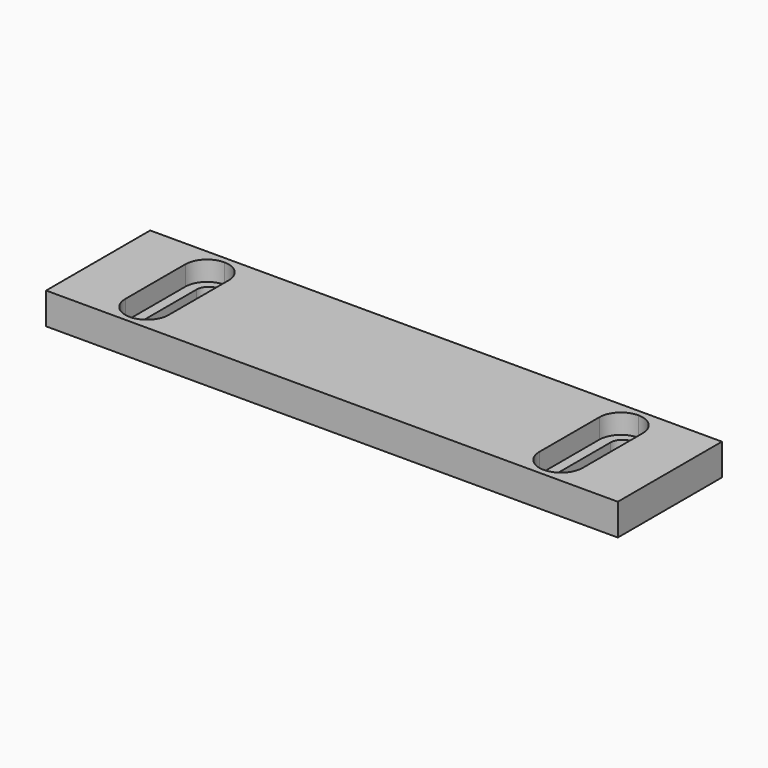
from build123d import *

# Parameters (mm, degrees)
F0_W     = 145
F0_H     = 33
F1_DEPTH = 8
F2_DEPTH = 5


with BuildPart() as f1:
    # F0 (on Top) → F1 (new body)
    with BuildSketch(Plane.XY):
        Rectangle(F0_W, F0_H)
        with BuildLine():
            Line((-58, -9.5), (-58, 9.5))
            ThreePointArc((-58, 9.5), (-56.389087, 13.389087), (-52.5, 15))
            ThreePointArc((-52.5, 15), (-48.610913, 13.389087), (-47, 9.5))
            Line((-47, 9.5), (-47, -9.5))
            ThreePointArc((-47, -9.5), (-48.610913, -13.389087), (-52.5, -15))
            ThreePointArc((-52.5, -15), (-56.389087, -13.389087), (-58, -9.5))
        make_face(mode=Mode.SUBTRACT)
        with BuildLine():
            Line((47, -9.5), (47, 9.5))
            ThreePointArc((47, 9.5), (48.610913, 13.389087), (52.5, 15))
            ThreePointArc((52.5, 15), (56.389087, 13.389087), (58, 9.5))
            Line((58, 9.5), (58, -9.5))
            ThreePointArc((58, -9.5), (56.389087, -13.389087), (52.5, -15))
            ThreePointArc((52.5, -15), (48.610913, -13.389087), (47, -9.5))
        make_face(mode=Mode.SUBTRACT)
        with BuildLine():
            ThreePointArc((-52.5, 15), (-56.389087, 13.389087), (-58, 9.5))
            Line((-58, 9.5), (-58, -9.5))
            ThreePointArc((-58, -9.5), (-56.389087, -13.389087), (-52.5, -15))
            ThreePointArc((-52.5, -15), (-48.610913, -13.389087), (-47, -9.5))
            Line((-47, -9.5), (-47, 9.5))
            ThreePointArc((-47, 9.5), (-48.610913, 13.389087), (-52.5, 15))
        make_face()
        with BuildLine():
            ThreePointArc((-52.5, 13), (-50.37868, 12.12132), (-49.5, 10))
            Line((-49.5, 10), (-49.5, -10))
            ThreePointArc((-49.5, -10), (-50.37868, -12.12132), (-52.5, -13))
            ThreePointArc((-52.5, -13), (-54.62132, -12.12132), (-55.5, -10))
            Line((-55.5, -10), (-55.5, 10))
            ThreePointArc((-55.5, 10), (-54.62132, 12.12132), (-52.5, 13))
        make_face(mode=Mode.SUBTRACT)
        with BuildLine():
            ThreePointArc((52.5, 15), (48.610913, 13.389087), (47, 9.5))
            Line((47, 9.5), (47, -9.5))
            ThreePointArc((47, -9.5), (48.610913, -13.389087), (52.5, -15))
            ThreePointArc((52.5, -15), (56.389087, -13.389087), (58, -9.5))
            Line((58, -9.5), (58, 9.5))
            ThreePointArc((58, 9.5), (56.389087, 13.389087), (52.5, 15))
        make_face()
        with BuildLine():
            Line((49.5, -10), (49.5, 10))
            ThreePointArc((49.5, 10), (50.37868, 12.12132), (52.5, 13))
            ThreePointArc((52.5, 13), (54.62132, 12.12132), (55.5, 10))
            Line((55.5, 10), (55.5, -10))
            ThreePointArc((55.5, -10), (54.62132, -12.12132), (52.5, -13))
            ThreePointArc((52.5, -13), (50.37868, -12.12132), (49.5, -10))
        make_face(mode=Mode.SUBTRACT)
    extrude(amount=-F1_DEPTH)

    # F0 (on Top) → F2 (cut)
    with BuildSketch(Plane.XY):
        with BuildLine():
            Line((-49.5, -10), (-49.5, 10))
            ThreePointArc((-49.5, 10), (-50.37868, 12.12132), (-52.5, 13))
            ThreePointArc((-52.5, 13), (-54.62132, 12.12132), (-55.5, 10))
            Line((-55.5, 10), (-55.5, -10))
            ThreePointArc((-55.5, -10), (-54.62132, -12.12132), (-52.5, -13))
            ThreePointArc((-52.5, -13), (-50.37868, -12.12132), (-49.5, -10))
        make_face()
        with BuildLine():
            ThreePointArc((52.5, 13), (50.37868, 12.12132), (49.5, 10))
            Line((49.5, 10), (49.5, -10))
            ThreePointArc((49.5, -10), (50.37868, -12.12132), (52.5, -13))
            ThreePointArc((52.5, -13), (54.62132, -12.12132), (55.5, -10))
            Line((55.5, -10), (55.5, 10))
            ThreePointArc((55.5, 10), (54.62132, 12.12132), (52.5, 13))
        make_face()
        with BuildLine():
            ThreePointArc((52.5, 15), (48.610913, 13.389087), (47, 9.5))
            Line((47, 9.5), (47, -9.5))
            ThreePointArc((47, -9.5), (48.610913, -13.389087), (52.5, -15))
            ThreePointArc((52.5, -15), (56.389087, -13.389087), (58, -9.5))
            Line((58, -9.5), (58, 9.5))
            ThreePointArc((58, 9.5), (56.389087, 13.389087), (52.5, 15))
        make_face()
        with BuildLine():
            Line((49.5, -10), (49.5, 10))
            ThreePointArc((49.5, 10), (50.37868, 12.12132), (52.5, 13))
            ThreePointArc((52.5, 13), (54.62132, 12.12132), (55.5, 10))
            Line((55.5, 10), (55.5, -10))
            ThreePointArc((55.5, -10), (54.62132, -12.12132), (52.5, -13))
            ThreePointArc((52.5, -13), (50.37868, -12.12132), (49.5, -10))
        make_face(mode=Mode.SUBTRACT)
        with BuildLine():
            ThreePointArc((-52.5, 15), (-56.389087, 13.389087), (-58, 9.5))
            Line((-58, 9.5), (-58, -9.5))
            ThreePointArc((-58, -9.5), (-56.389087, -13.389087), (-52.5, -15))
            ThreePointArc((-52.5, -15), (-48.610913, -13.389087), (-47, -9.5))
            Line((-47, -9.5), (-47, 9.5))
            ThreePointArc((-47, 9.5), (-48.610913, 13.389087), (-52.5, 15))
        make_face()
        with BuildLine():
            ThreePointArc((-52.5, 13), (-50.37868, 12.12132), (-49.5, 10))
            Line((-49.5, 10), (-49.5, -10))
            ThreePointArc((-49.5, -10), (-50.37868, -12.12132), (-52.5, -13))
            ThreePointArc((-52.5, -13), (-54.62132, -12.12132), (-55.5, -10))
            Line((-55.5, -10), (-55.5, 10))
            ThreePointArc((-55.5, 10), (-54.62132, 12.12132), (-52.5, 13))
        make_face(mode=Mode.SUBTRACT)
    extrude(amount=-F2_DEPTH, mode=Mode.SUBTRACT)


solid = f1.part
